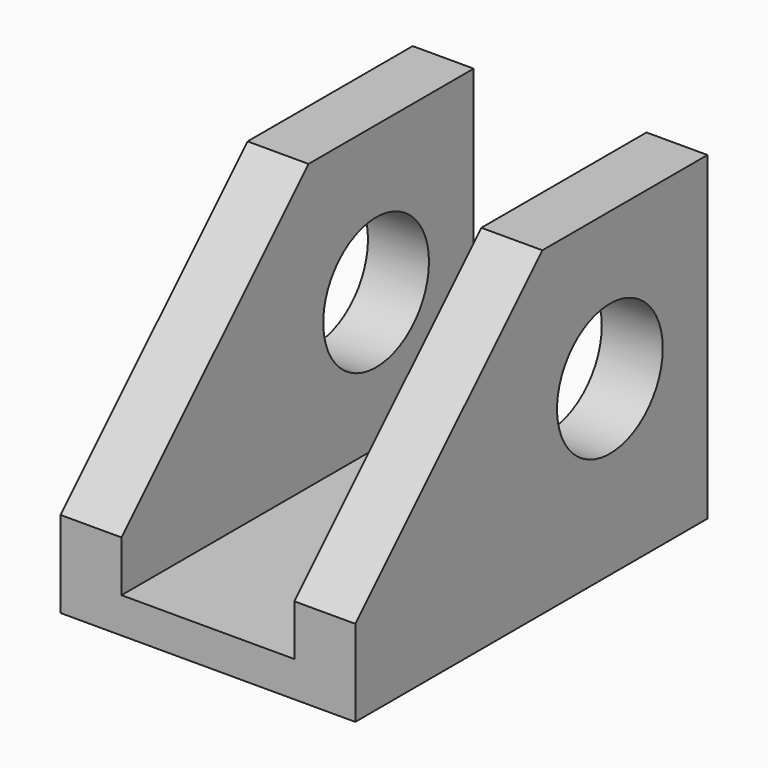
from build123d import *

# Parameters (mm, degrees)
F0_W     = 36.83
F0_H     = 40
F1_DEPTH = 55
F2_SIZE  = 29.21
F4_DEPTH = 35.56
F5_R     = 8.255
F6_DEPTH = 50.8


with BuildPart() as f1:
    # F0 (on Front) → F1 (new body)
    with BuildSketch(Plane.XZ):
        with Locations((18.415, 20)):
            Rectangle(F0_W, F0_H)
    extrude(amount=F1_DEPTH)

    # F2
    f2_edges = [f1.edges().sort_by_distance(p)[0] for p in [
        (18.415, -55, 40),
    ]]
    chamfer(f2_edges, length=F2_SIZE)

    # F3 (on face) → F4 (cut)
    with BuildSketch(Plane.XY.offset(40)):
        Polygon((29.21, 0), (7.62, 0), (7.62, -55.67665), (29.21, -55.354353), align=None)
        Polygon((29.21, 0), (7.62, 0), (7.62, -55.67665), (29.21, -55.354353), align=None)
    extrude(amount=-F4_DEPTH, mode=Mode.SUBTRACT)

    # F5 (on face) → F6 (cut)
    with BuildSketch(Plane.YZ.offset(36.83)):
        with Locations((-15.24, 21.59)):
            Circle(F5_R)
    extrude(amount=-F6_DEPTH, mode=Mode.SUBTRACT)


solid = f1.part
